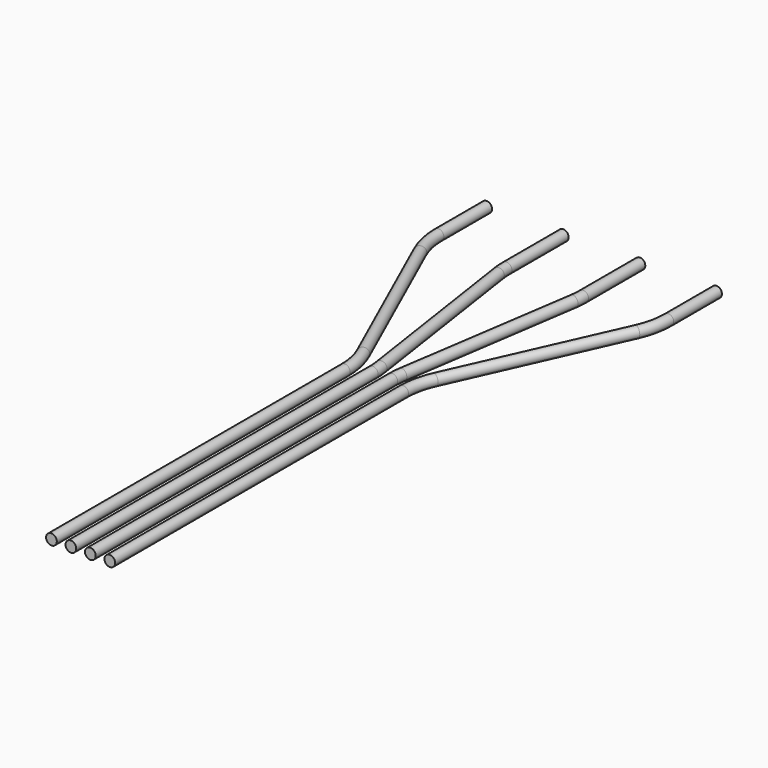
from build123d import *

# Parameters (mm, degrees)
F4_R = 1.4
F5_R = 1.4
F6_R = 1.4
F7_R = 1.4


with BuildPart() as f8:
    # F8: sweep along a path in F0
    with BuildLine(Plane.XY) as f8_path:
        Line((-7.62, 0), (-7.62, 95.728198357))
        ThreePointArc((-7.62, 95.728198357), (-8.0611685251, 99.9057707785), (-9.3652111337, 103.8990418536))
        Line((-9.3652111337, 103.8990418536), (-28.2547888663, 146.1009581464))
        ThreePointArc((-28.2547888663, 146.1009581464), (-29.5588314749, 150.0942292215), (-30, 154.271801643))
        Line((-30, 154.271801643), (-30, 170))
    # F4 (on Front) → F8 (sweep)
    with BuildSketch(Plane.XZ):
        with Locations((-7.62, 0)):
            Circle(F4_R)
    sweep(path=f8_path.line)


with BuildPart() as f9:
    # F9: sweep along a path in F1
    with BuildLine(Plane.XY) as f9_path:
        Line((-2.54, 0), (-2.54, 98.5162120673))
        ThreePointArc((-2.54, 98.5162120673), (-2.5948144923, 99.9959333459), (-2.7589575062, 101.4675436074))
        Line((-2.7589575062, 101.4675436074), (-9.7810424938, 148.5324563926))
        ThreePointArc((-9.7810424938, 148.5324563926), (-9.9451855077, 150.0040666541), (-10, 151.4837879327))
        Line((-10, 151.4837879327), (-10, 170))
    # F5 (on Front) → F9 (sweep)
    with BuildSketch(Plane.XZ):
        with Locations((-2.54, 0)):
            Circle(F5_R)
    sweep(path=f9_path.line)


with BuildPart() as f10:
    # F10: sweep along a path in F2
    with BuildLine(Plane.XY) as f10_path:
        Line((2.54, 0), (2.54, 98.5162120673))
        ThreePointArc((2.54, 98.5162120673), (2.5948144923, 99.9959333459), (2.7589575062, 101.4675436074))
        Line((2.7589575062, 101.4675436074), (9.7810424938, 148.5324563926))
        ThreePointArc((9.7810424938, 148.5324563926), (9.9451855077, 150.0040666541), (10, 151.4837879327))
        Line((10, 151.4837879327), (10, 170))
    # F6 (on Front) → F10 (sweep)
    with BuildSketch(Plane.XZ):
        with Locations((2.54, 0)):
            Circle(F6_R)
    sweep(path=f10_path.line)


with BuildPart() as f11:
    # F11: sweep along a path in F3
    with BuildLine(Plane.XY) as f11_path:
        Line((7.62, 0), (7.62, 95.728198357))
        ThreePointArc((7.62, 95.728198357), (8.0611685251, 99.9057707785), (9.3652111337, 103.8990418536))
        Line((9.3652111337, 103.8990418536), (28.2547888663, 146.1009581464))
        ThreePointArc((28.2547888663, 146.1009581464), (29.5588314749, 150.0942292215), (30, 154.271801643))
        Line((30, 154.271801643), (30, 170))
    # F7 (on Front) → F11 (sweep)
    with BuildSketch(Plane.XZ):
        with Locations((7.62, 0)):
            Circle(F7_R)
    sweep(path=f11_path.line)


solid = Compound([f8.part, f9.part, f10.part, f11.part])
